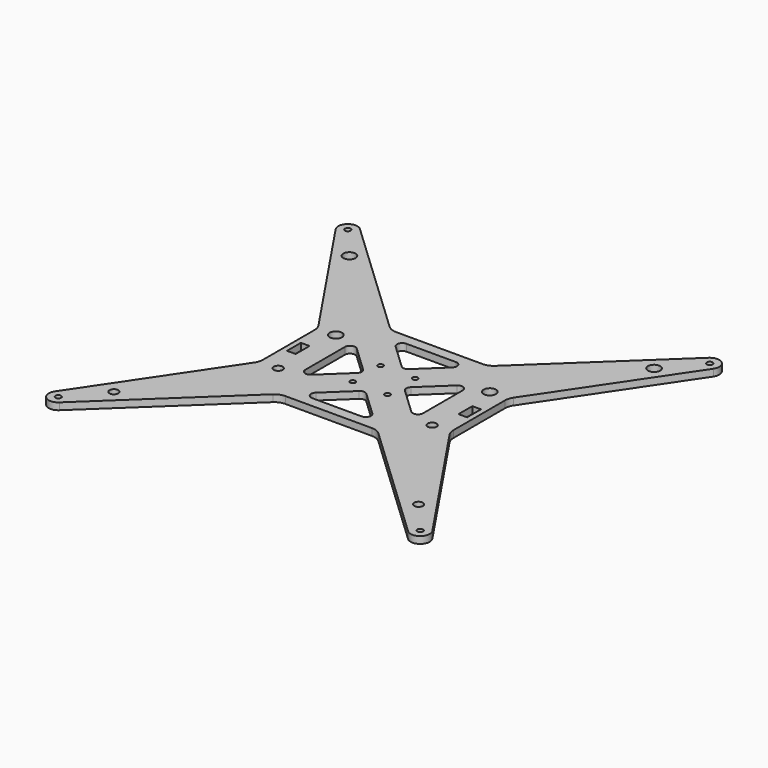
from build123d import *

# Parameters (mm, degrees)
F0_R     = 1.65
F0_R_2   = 2.55
F0_R_3   = 1.525
F0_W     = 5
F0_H     = 10
F0_R_4   = 3.555
F1_DEPTH = 4


with BuildPart() as f1:
    # F0 (on Top) → F1 (new body)
    with BuildSketch(Plane.XY):
        with BuildLine():
            ThreePointArc((-56.363239, 23.1312), (-55.348378, 20.999418), (-54.999976, 18.664241))
            Line((-54.999976, 18.664241), (-54.999976, -18.664242))
            ThreePointArc((-54.999976, -18.664242), (-55.348378, -20.999419), (-56.363239, -23.1312))
            Line((-56.363239, -23.1312), (-109.062757, -101.428966))
            ThreePointArc((-109.062757, -101.428966), (-108.056825, -108.695115), (-100.723998, -108.498976))
            Line((-100.723998, -108.498976), (-30.492366, -42.183308))
            ThreePointArc((-30.492366, -42.183308), (-27.955204, -40.565838), (-25, -40))
            Line((-25, -40), (25, -40))
            ThreePointArc((25, -40), (27.955204, -40.565838), (30.492367, -42.183308))
            Line((30.492367, -42.183308), (100.723998, -108.498976))
            ThreePointArc((100.723998, -108.498976), (108.056825, -108.695115), (109.062757, -101.428966))
            Line((109.062757, -101.428966), (56.363239, -23.1312))
            ThreePointArc((56.363239, -23.1312), (55.348379, -20.999418), (54.999977, -18.664242))
            Line((54.999977, -18.664242), (54.999977, 18.664241))
            ThreePointArc((54.999977, 18.664241), (55.348379, 20.999418), (56.363239, 23.1312))
            Line((56.363239, 23.1312), (109.062757, 101.428966))
            ThreePointArc((109.062757, 101.428966), (108.056825, 108.695115), (100.723998, 108.498976))
            Line((100.723998, 108.498976), (30.492367, 42.183307))
            ThreePointArc((30.492367, 42.183307), (27.955204, 40.565837), (25, 40))
            Line((25, 40), (-25, 40))
            ThreePointArc((-25, 40), (-27.955204, 40.565837), (-30.492366, 42.183307))
            Line((-30.492366, 42.183307), (-100.723998, 108.498976))
            ThreePointArc((-100.723998, 108.498976), (-108.056825, 108.695115), (-109.062757, 101.428966))
            Line((-109.062757, 101.428966), (-56.363239, 23.1312))
        make_face()
        with Locations((-104.5, -104.5)):
            Circle(F0_R, mode=Mode.SUBTRACT)
        with Locations((-87.96694, -85)):
            Circle(F0_R_2, mode=Mode.SUBTRACT)
        with Locations((-44.444976, -20.807752)):
            Circle(F0_R_2, mode=Mode.SUBTRACT)
        with BuildLine():
            ThreePointArc((-34, 14.278979), (-32.187663, 17.033876), (-28.940362, 16.460239))
            Line((-28.940362, 16.460239), (-13.818204, 2.181259))
            ThreePointArc((-13.818204, 2.181259), (-12.877841, -1e-06), (-13.818204, -2.18126))
            Line((-13.818204, -2.18126), (-28.940362, -16.460239))
            ThreePointArc((-28.940362, -16.460239), (-32.187663, -17.033877), (-34, -14.27898))
            Line((-34, -14.27898), (-34, 14.278979))
        make_face(mode=Mode.SUBTRACT)
        with Locations((-10, -10)):
            Circle(F0_R_3, mode=Mode.SUBTRACT)
        with Locations((104.5, -104.5)):
            Circle(F0_R, mode=Mode.SUBTRACT)
        with Locations((87.966941, -85)):
            Circle(F0_R_2, mode=Mode.SUBTRACT)
        with BuildLine():
            ThreePointArc((-14.278979, -34), (-17.06679, -32.108202), (-16.338617, -28.818741))
            Line((-16.338617, -28.818741), (-2.059637, -15.335926))
            ThreePointArc((-2.059637, -15.335926), (0, -14.517186), (2.059638, -15.335926))
            Line((2.059638, -15.335926), (16.338617, -28.818741))
            ThreePointArc((16.338617, -28.818741), (17.06679, -32.108202), (14.27898, -34))
            Line((14.27898, -34), (-14.278979, -34))
        make_face(mode=Mode.SUBTRACT)
        with Locations((10, -10)):
            Circle(F0_R_3, mode=Mode.SUBTRACT)
        with Locations((44.444977, -20.807752)):
            Circle(F0_R_2, mode=Mode.SUBTRACT)
        with Locations((-49.499976, 0)):
            Rectangle(F0_W, F0_H, mode=Mode.SUBTRACT)
        with Locations((-44.444976, 20.810818)):
            Circle(F0_R_4, mode=Mode.SUBTRACT)
        with Locations((-10, 10)):
            Circle(F0_R_3, mode=Mode.SUBTRACT)
        with Locations((-87.96694, 85)):
            Circle(F0_R_4, mode=Mode.SUBTRACT)
        with Locations((-104.5, 104.5)):
            Circle(F0_R, mode=Mode.SUBTRACT)
        with Locations((10, 10)):
            Circle(F0_R_3, mode=Mode.SUBTRACT)
        with BuildLine():
            ThreePointArc((28.940363, 16.460239), (32.187664, 17.033876), (34, 14.278979))
            Line((34, 14.278979), (34, -14.27898))
            ThreePointArc((34, -14.27898), (32.187663, -17.033876), (28.940363, -16.460239))
            Line((28.940363, -16.460239), (13.818205, -2.18126))
            ThreePointArc((13.818205, -2.18126), (12.877842, 0), (13.818205, 2.181259))
            Line((13.818205, 2.181259), (28.940363, 16.460239))
        make_face(mode=Mode.SUBTRACT)
        with BuildLine():
            ThreePointArc((14.27898, 34), (17.066791, 32.108201), (16.338617, 28.81874))
            Line((16.338617, 28.81874), (2.059638, 15.335925))
            ThreePointArc((2.059638, 15.335925), (0, 14.517185), (-2.059637, 15.335925))
            Line((-2.059637, 15.335925), (-16.338617, 28.81874))
            ThreePointArc((-16.338617, 28.81874), (-17.06679, 32.108201), (-14.278979, 34))
            Line((-14.278979, 34), (14.27898, 34))
        make_face(mode=Mode.SUBTRACT)
        with Locations((49.499977, 0)):
            Rectangle(F0_W, F0_H, mode=Mode.SUBTRACT)
        with Locations((44.444977, 20.810818)):
            Circle(F0_R_4, mode=Mode.SUBTRACT)
        with Locations((87.966941, 85)):
            Circle(F0_R_4, mode=Mode.SUBTRACT)
        with Locations((104.5, 104.5)):
            Circle(F0_R, mode=Mode.SUBTRACT)
    extrude(amount=F1_DEPTH)


solid = f1.part
